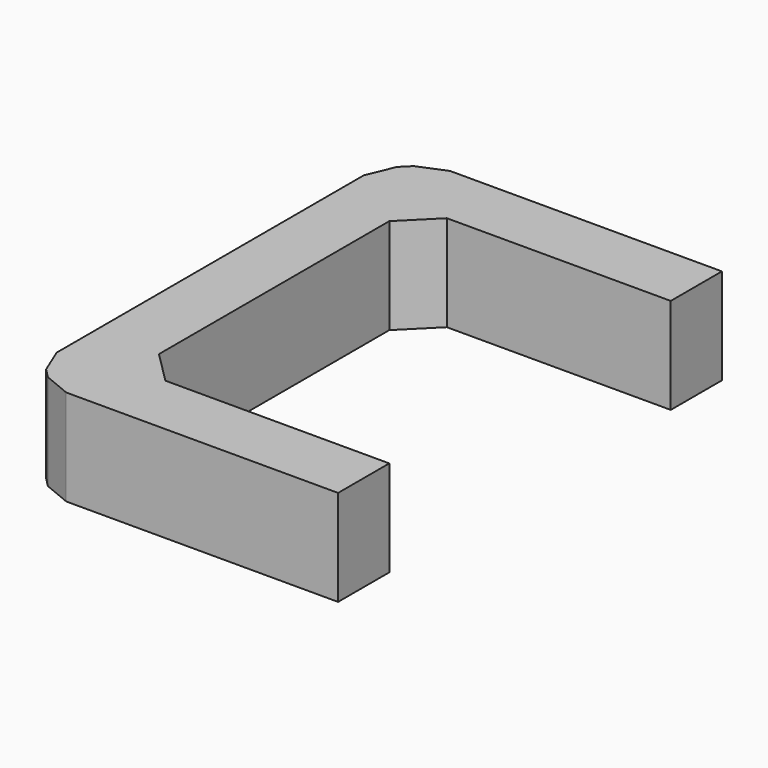
from build123d import *

# Parameters (mm, degrees)
BOX003_W        = 10
BOX003_H        = 2
BOX003_DEPTH    = 3
BOX002_W        = 10
BOX002_H        = 2
BOX002_DEPTH    = 3
BOX004_W        = 2
BOX004_H        = 11
BOX004_DEPTH    = 3
CHAMFER002_SIZE = 1
CHAMFER003_SIZE = 0.5


with BuildPart() as cube003:
    # Box003 → Box003 (new body)
    with BuildSketch(Plane(origin=(15.5, 13, 0), x_dir=(1, 0, 0), z_dir=(0, 0, 1))):
        with Locations((5, 1)):
            Rectangle(BOX003_W, BOX003_H)
    extrude(amount=BOX003_DEPTH)


with BuildPart() as cube002:
    # Box002 → Box002 (new body)
    with BuildSketch(Plane(origin=(15.5, 0, 0), x_dir=(1, 0, 0), z_dir=(0, 0, 1))):
        with Locations((5, 1)):
            Rectangle(BOX002_W, BOX002_H)
    extrude(amount=BOX002_DEPTH)


with BuildPart() as chamfer003:
    # Box004 → Box004 (new body)
    with BuildSketch(Plane(origin=(15.5, 2, 0), x_dir=(1, 0, 0), z_dir=(0, 0, 1))):
        with Locations((1, 5.5)):
            Rectangle(BOX004_W, BOX004_H)
    extrude(amount=BOX004_DEPTH)

    # Fusion002: union Cube003, Cube002
    add(cube003.part)
    add(cube002.part)

    # Chamfer002
    chamfer002_edges = [chamfer003.edges().sort_by_distance(p)[0] for p in [
        (15.5, 0, 1.5),
        (15.5, 15, 1.5),
        (17.5, 2, 1.5),
        (17.5, 13, 1.5),
    ]]
    chamfer(chamfer002_edges, length=CHAMFER002_SIZE)

    # Chamfer003
    chamfer003_edges = [chamfer003.edges().sort_by_distance(p)[0] for p in [
        (15.5, 1, 1.5),
        (16.5, 0, 1.5),
        (15.5, 14, 1.5),
        (16.5, 15, 1.5),
    ]]
    chamfer(chamfer003_edges, length=CHAMFER003_SIZE)


solid = chamfer003.part
